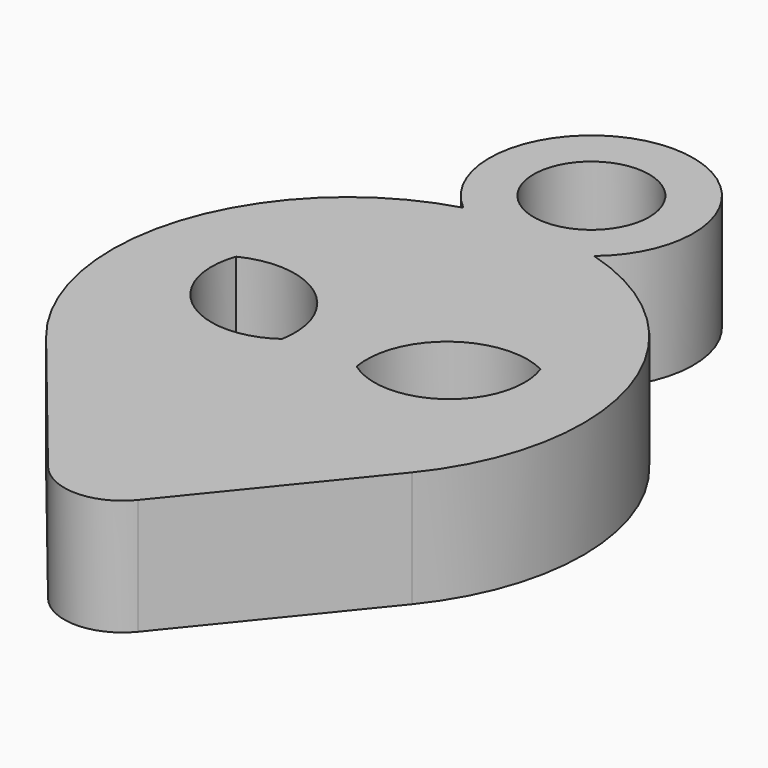
from build123d import *

# Parameters (mm, degrees)
F1_DEPTH = 12.7
F2_R     = 6.325984
F3_DEPTH = 12.7


with BuildPart() as f1:
    # F0 (on Top) → F1 (new body)
    with BuildSketch(Plane.XY):
        with BuildLine():
            Line((4.930796, -34.827771), (20.013764, -16.240678))
            ThreePointArc((20.013764, -16.240678), (0, 25.774219), (-20.013764, -16.240678))
            Line((-20.013764, -16.240678), (-4.930796, -34.827771))
            ThreePointArc((-4.930796, -34.827771), (0, -37.176552), (4.930796, -34.827771))
        make_face()
        with BuildLine():
            ThreePointArc((-16.655875, 5.560721), (-7.460285, 4.715734), (-4.074331, -3.875436))
            ThreePointArc((-4.074331, -3.875436), (-13.849756, -3.803562), (-16.655875, 5.560721))
        make_face(mode=Mode.SUBTRACT)
        with BuildLine():
            ThreePointArc((16.655875, 5.560721), (13.849756, -3.803562), (4.074331, -3.875436))
            ThreePointArc((4.074331, -3.875436), (7.460285, 4.715734), (16.655875, 5.560721))
        make_face(mode=Mode.SUBTRACT)
    extrude(amount=F1_DEPTH)

    # F2 (on face) → F3 (join)
    with BuildSketch(Plane(origin=(0, 0, 0), x_dir=(1, 0, 0), z_dir=(0, 0, -1))):
        with BuildLine():
            ThreePointArc((7.156011, -24.760894), (0, -25.774219), (-7.156011, -24.760894))
            ThreePointArc((-7.156011, -24.760894), (0, -44.494381), (7.156011, -24.760894))
        make_face()
        with Locations((0, -33.330135)):
            Circle(F2_R, mode=Mode.SUBTRACT)
    extrude(amount=-F3_DEPTH)


solid = f1.part
